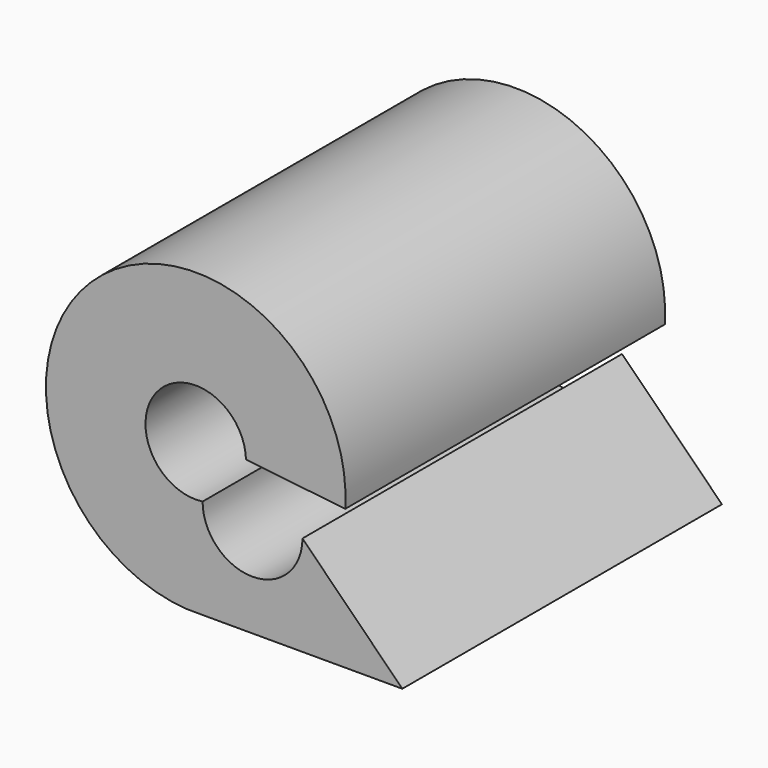
from build123d import *

# Parameters (mm, degrees)
F1_DEPTH      = 50.8
F1_DEPTH_BACK = 50.8
F2_DEPTH      = 101.601
F1_FACE1_W    = 101.6
F1_FACE1_H    = 25.4


with BuildPart() as f1:
    # F0 (on Front) → F1 (new body, two sides)
    with BuildSketch(Plane.XZ) as f1_sk:
        Polygon((0, 25.4), (0, 0), (50.8, 0), (25.4, 25.4), align=None)
    extrude(amount=F1_DEPTH)
    extrude(f1_sk.sketch, amount=-F1_DEPTH_BACK)

    # F6 (on face) → F2 (cut, through all)
    with BuildSketch(Plane.XZ.offset(50.8)):
        with BuildLine():
            Line((0, 25.4), (25.4, 25.4))
            ThreePointArc((25.4, 25.4), (12.7, 38.1), (0, 25.4))
        make_face()
        with BuildLine():
            ThreePointArc((0, 25.4), (12.7, 12.7), (25.4, 25.4))
            Line((25.4, 25.4), (0, 25.4))
        make_face()
    extrude(amount=-F2_DEPTH, mode=Mode.SUBTRACT)

    # F4: sweep along a path in F3
    with BuildLine(Plane.XZ) as f4_path:
        ThreePointArc((36.278456417, 35.56), (-28.4094161115, 65.2691159795), (0, 0))
    # F1_face1 (on face) → F4 (sweep)
    with BuildSketch(Plane(origin=(0, 0, 12.7), x_dir=(0, -1, 0), z_dir=(-1, 0, 0))):
        Rectangle(F1_FACE1_W, F1_FACE1_H)
    sweep(path=f4_path.line)


solid = f1.part
